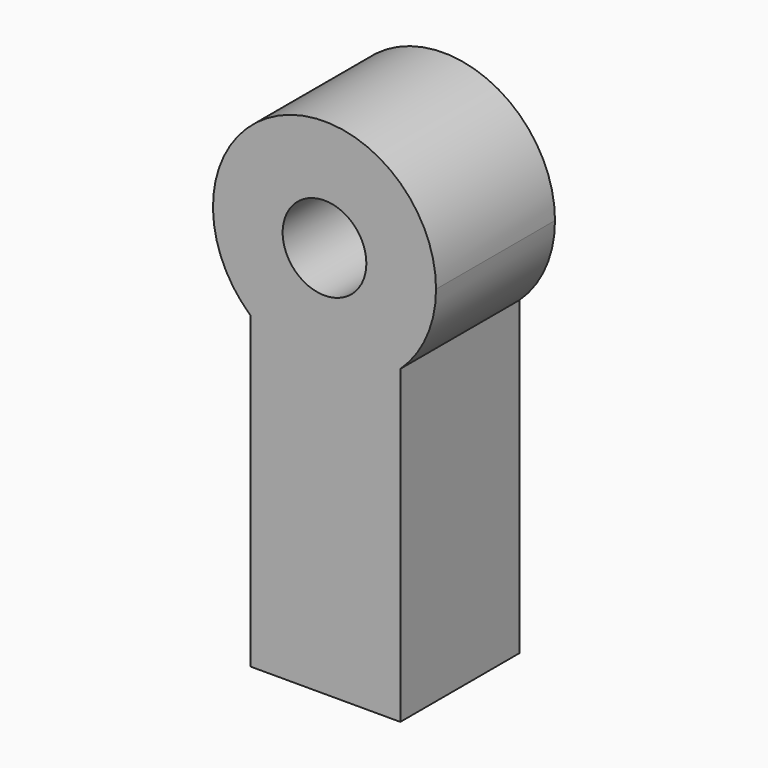
from build123d import *

# Parameters (mm, degrees)
F0_R     = 7.1501
F1_DEPTH = 25.4


with BuildPart() as f1:
    # F0 (on Front) → F1 (new body)
    with BuildSketch(Plane.XZ):
        with BuildLine():
            ThreePointArc((12.951258, -13.970234), (17.458865, -7.621714), (19.05, 0))
            ThreePointArc((19.05, 0), (-7.799478, 17.380179), (-12.663453, -14.231636))
            ThreePointArc((-12.663453, -14.231636), (0.194398, -19.049008), (12.951258, -13.970234))
        make_face()
        Circle(F0_R, mode=Mode.SUBTRACT)
        with BuildLine():
            ThreePointArc((12.951258, -13.970234), (0.194398, -19.049008), (-12.663453, -14.231636))
            Line((-12.663453, -14.231636), (-12.663453, -19.05))
            Line((-12.663453, -19.05), (-12.663453, -67.058742))
            Line((-12.663453, -67.058742), (12.951258, -67.058742))
            Line((12.951258, -67.058742), (12.951258, -13.970234))
        make_face()
    extrude(amount=F1_DEPTH)


solid = f1.part
